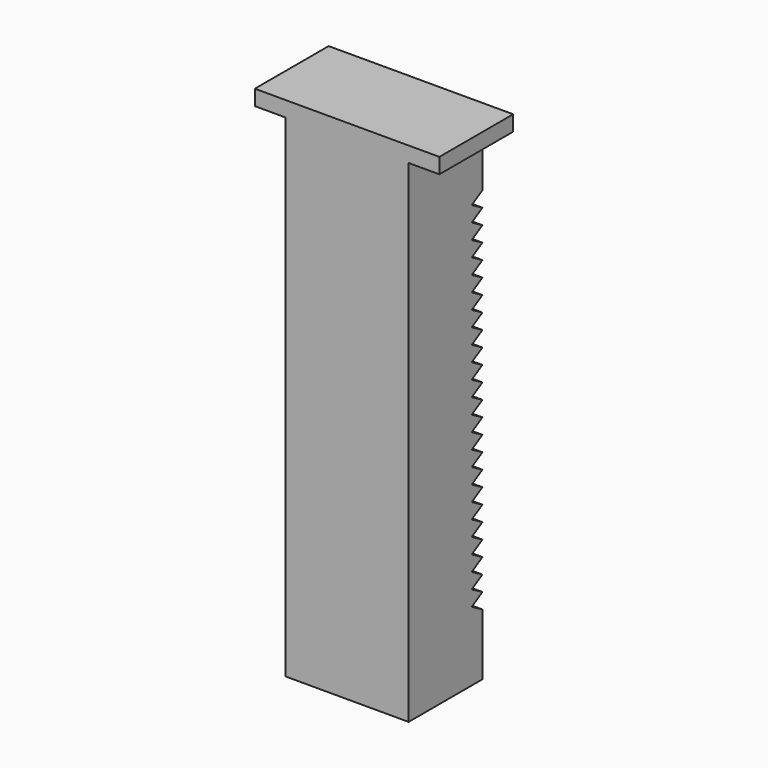
from build123d import *

# Parameters (mm, degrees)
F0_W     = 50.8
F0_H     = 203.2
F1_DEPTH = 19.05
F3_DEPTH = 50.8


with BuildPart() as f1:
    # F0 (on Front) → F1 (new body, symmetric)
    with BuildSketch(Plane.XZ):
        Polygon((-38.1, 203.2), (-25.4, 203.2), (25.4, 203.2), (38.1, 203.2), (38.1, 209.55), (-38.1, 209.55), align=None)
        with Locations((0, 101.6)):
            Rectangle(F0_W, F0_H)
    extrude(amount=F1_DEPTH, both=True)

    # F2 (on face) → F3 (cut)
    with BuildSketch(Plane.YZ.offset(25.4)):
        Polygon((13.550739, 66.675), (19.05, 63.5), (19.05, 69.85), align=None)
        Polygon((13.550739, 28.575), (19.05, 25.4), (19.05, 31.75), align=None)
        Polygon((13.550739, 60.325), (19.05, 57.15), (19.05, 63.5), align=None)
        Polygon((13.550739, 79.375), (19.05, 76.2), (19.05, 82.55), align=None)
        Polygon((19.05, 88.9), (19.05, 95.25), (13.550739, 92.075), align=None)
        Polygon((19.05, 82.55), (19.05, 88.9), (13.550739, 85.725), align=None)
        Polygon((19.05, 171.45), (19.05, 177.8), (13.550739, 174.625), align=None)
        Polygon((19.05, 165.1), (19.05, 171.45), (13.550739, 168.275), align=None)
        Polygon((19.05, 158.75), (19.05, 165.1), (13.550739, 161.925), align=None)
        Polygon((19.05, 152.4), (19.05, 158.75), (13.550739, 155.575), align=None)
        Polygon((19.05, 146.05), (19.05, 152.4), (13.550739, 149.225), align=None)
        Polygon((19.05, 139.7), (19.05, 146.05), (13.550739, 142.875), align=None)
        Polygon((19.05, 133.35), (19.05, 139.7), (13.550739, 136.525), align=None)
        Polygon((19.05, 127), (19.05, 133.35), (13.550739, 130.175), align=None)
        Polygon((19.05, 114.3), (19.05, 120.65), (13.550739, 117.475), align=None)
        Polygon((19.05, 120.65), (19.05, 127), (13.550739, 123.825), align=None)
        Polygon((19.05, 107.95), (19.05, 114.3), (13.550739, 111.125), align=None)
        Polygon((19.05, 101.6), (19.05, 107.95), (13.550739, 104.775), align=None)
        Polygon((19.05, 95.25), (19.05, 101.6), (13.550739, 98.425), align=None)
        Polygon((13.550739, 34.925), (19.05, 31.75), (19.05, 38.1), align=None)
        Polygon((13.550739, 47.625), (19.05, 44.45), (19.05, 50.8), align=None)
        Polygon((13.550739, 73.025), (19.05, 69.85), (19.05, 76.2), align=None)
        Polygon((13.550739, 53.975), (19.05, 50.8), (19.05, 57.15), align=None)
        Polygon((13.550739, 41.275), (19.05, 38.1), (19.05, 44.45), align=None)
    extrude(amount=-F3_DEPTH, mode=Mode.SUBTRACT)


solid = f1.part
